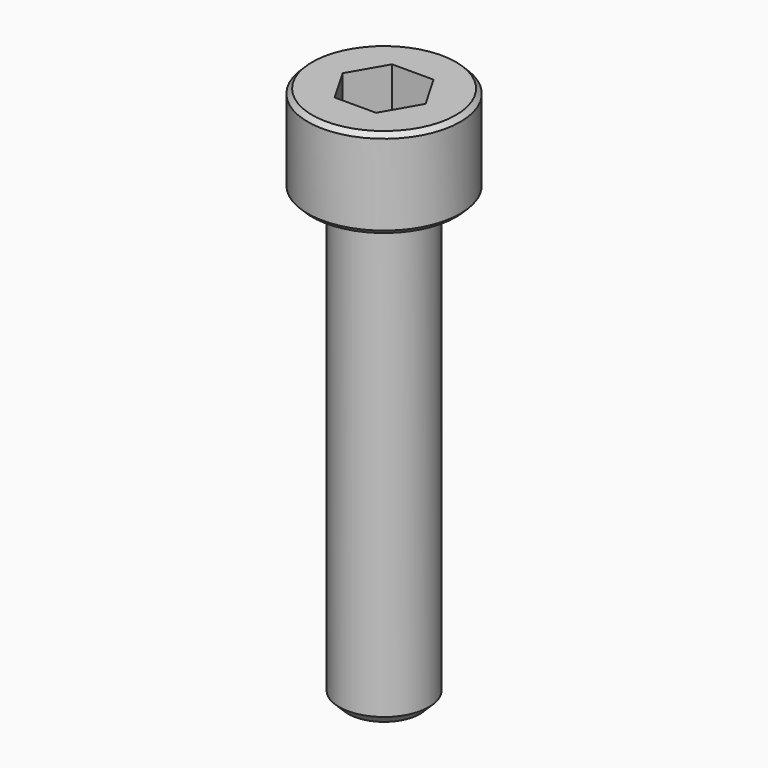
from build123d import *

# Parameters (mm, degrees)
F3_DEPTH = 2.5
F4_SIZE  = 0.5
F5_SIZE  = 0.25


with BuildPart() as f1:
    # F0 (on Front) → F1 (revolve)
    with BuildSketch(Plane.XZ):
        Polygon((4.25, 0), (0, 0), (0, -30), (2.5, -30), (2.5, -5), (4.25, -5), align=None)
    revolve(axis=Axis((0, 0, -15), (0, 0, -1)))

    # F2 (on face) → F3 (cut)
    with BuildSketch(Plane.XY):
        Polygon((1.154701, 2), (-1.154701, 2), (-2.309401, 0), (-1.154701, -2), (1.154701, -2), (2.309401, 0), align=None)
    extrude(amount=-F3_DEPTH, mode=Mode.SUBTRACT)

    # F4
    f4_edges = [f1.edges().sort_by_distance(p)[0] for p in [
        (-2.5, 0, -30),
    ]]
    chamfer(f4_edges, length=F4_SIZE)

    # F5
    f5_edges = [f1.edges().sort_by_distance(p)[0] for p in [
        (-4.25, 0, 0),
        (-4.25, 0, -5),
    ]]
    chamfer(f5_edges, length=F5_SIZE)


solid = f1.part
